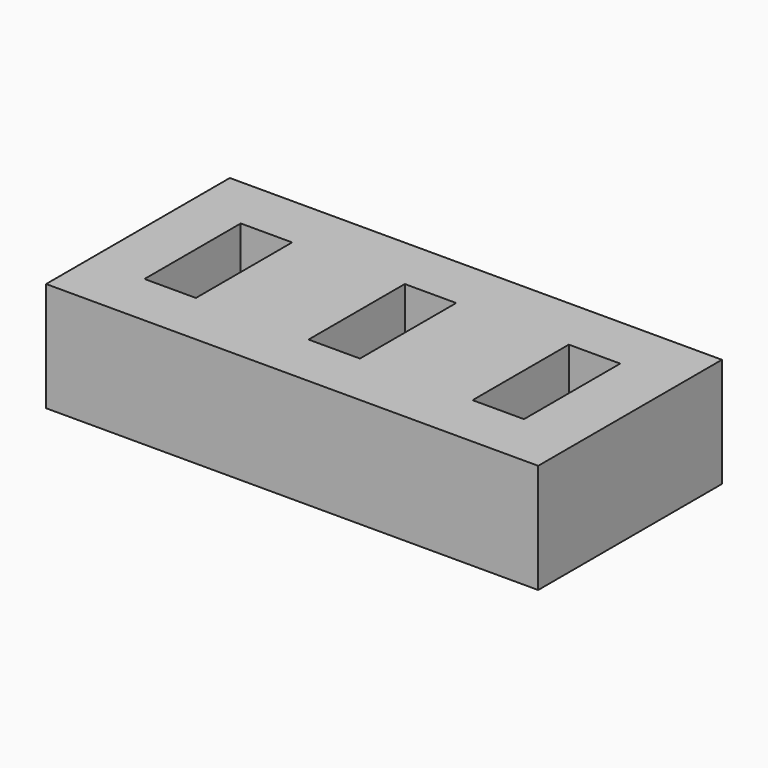
from build123d import *

# Parameters (mm, degrees)
BOX001_W     = 4.7
BOX001_H     = 11
BOX001_DEPTH = 12
BOX002_W     = 4.7
BOX002_H     = 11
BOX002_DEPTH = 12
BOX_W        = 4.7
BOX_H        = 11
BOX_DEPTH    = 12
BOX003_W     = 45
BOX003_H     = 21
BOX003_DEPTH = 10


with BuildPart() as box001:
    # Box001 → Box001 (new body)
    with BuildSketch(Plane(origin=(15, 0, 0), x_dir=(1, 0, 0), z_dir=(0, 0, 1))):
        with Locations((2.35, 5.5)):
            Rectangle(BOX001_W, BOX001_H)
    extrude(amount=BOX001_DEPTH)


with BuildPart() as box002:
    # Box002 → Box002 (new body)
    with BuildSketch(Plane(origin=(30, 0, 0), x_dir=(1, 0, 0), z_dir=(0, 0, 1))):
        with Locations((2.35, 5.5)):
            Rectangle(BOX002_W, BOX002_H)
    extrude(amount=BOX002_DEPTH)


with BuildPart() as ranuras:
    # Box → Box (new body)
    with BuildSketch(Plane.XY):
        with Locations((2.35, 5.5)):
            Rectangle(BOX_W, BOX_H)
    extrude(amount=BOX_DEPTH)

    # Fusion: union Box001, Box002
    add(box001.part)
    add(box002.part)


with BuildPart() as ranuras_1:
    # Fusion placement: moved
    add(ranuras.part.moved(Location((5, 5, 3))))


with BuildPart() as porta_pendrives:
    # Box003 → Box003 (new body)
    with BuildSketch(Plane.XY):
        with Locations((22.5, 10.5)):
            Rectangle(BOX003_W, BOX003_H)
    extrude(amount=BOX003_DEPTH)

    # Cut: cut Ranuras
    add(ranuras_1.part, mode=Mode.SUBTRACT)


solid = porta_pendrives.part
